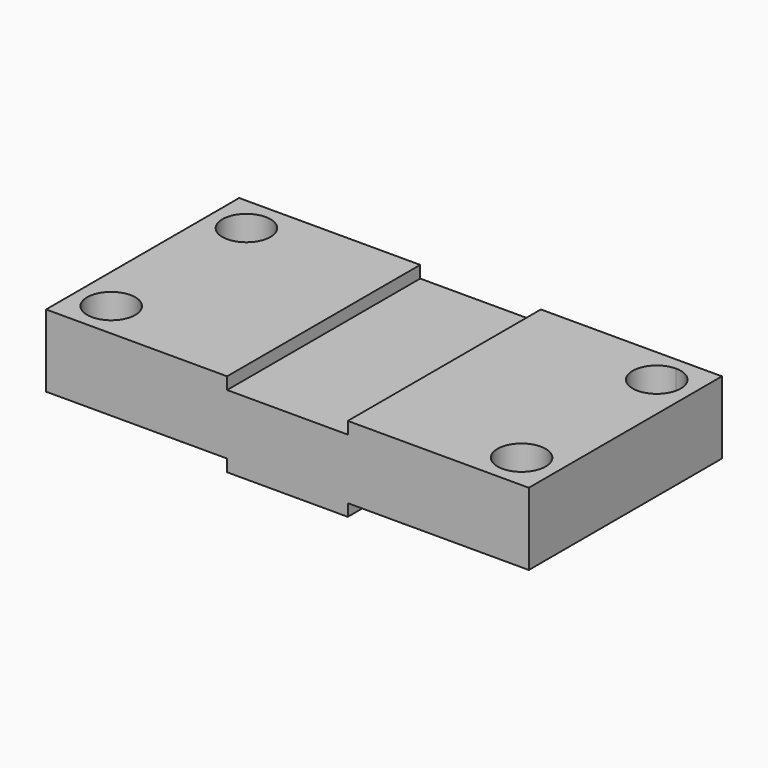
from build123d import *

# Parameters (mm, degrees)
F0_W     = 38.1
F0_H     = 50.8
F0_W_2   = 25.4
F1_DEPTH = 12.7
F2_DEPTH = 15.24
F5_W     = 12.7
F5_H     = 2.54
F6_DEPTH = 50.8
F7_R     = 5.059721
F8_DEPTH = 17.781


with BuildPart() as f1:
    # F0 (on Top) → F1 (new body)
    with BuildSketch(Plane.XY):
        with Locations((-31.75, 0)):
            Rectangle(F0_W, F0_H)
        Rectangle(F0_W_2, F0_H)
        with Locations((31.75, 0)):
            Rectangle(F0_W, F0_H)
    extrude(amount=F1_DEPTH)

    # F0 (on Top) → F2 (join)
    with BuildSketch(Plane.XY):
        with Locations((31.75, 0)):
            Rectangle(F0_W, F0_H)
        with Locations((-31.75, 0)):
            Rectangle(F0_W, F0_H)
    extrude(amount=F2_DEPTH)

    # F5 (on face) → F6 (join)
    with BuildSketch(Plane.XZ.offset(25.4)):
        with Locations((-6.35, -1.27)):
            Rectangle(F5_W, F5_H)
        with Locations((6.35, -1.27)):
            Rectangle(F5_W, F5_H)
    extrude(amount=-F6_DEPTH)

    # F7 (on face) → F8 (cut, through all)
    with BuildSketch(Plane.XY.offset(15.24)):
        with BuildLine():
            ThreePointArc((43.18, 22.839721), (39.602237, 14.202237), (48.239721, 17.78))
            ThreePointArc((48.239721, 17.78), (46.757763, 21.357763), (43.18, 22.839721))
        make_face()
        with Locations((43.18, -17.78)):
            Circle(F7_R)
        with Locations((-43.18, 17.78)):
            Circle(F7_R)
        with Locations((-43.18, -17.78)):
            Circle(F7_R)
    extrude(amount=-F8_DEPTH, mode=Mode.SUBTRACT)


solid = f1.part
